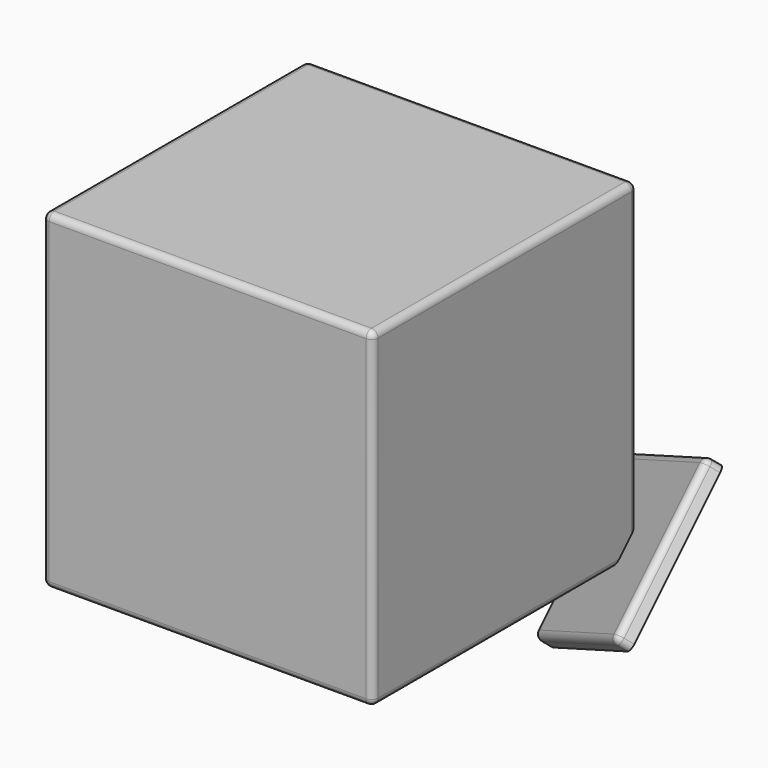
from build123d import *

# Parameters (mm, degrees)
F0_W     = 50
F0_H     = 50
F1_DEPTH = 25
F4_W     = 25
F4_H     = 25
F5_DEPTH = 2.5
F6_R     = 1


with BuildPart() as f1:
    # F0 (on Top) → F1 (new body, symmetric)
    with BuildSketch(Plane.XY):
        Rectangle(F0_W, F0_H)
    extrude(amount=F1_DEPTH, both=True)

    # F4 (on plane+point) → F5 (join)
    with BuildSketch(Plane(origin=(25, 25, -25), x_dir=(-0.8164965809, 0.4082482905, -0.4082482905), z_dir=(0.5773502692, 0.5773502692, -0.5773502692))):
        Rectangle(F4_W, F4_H)
    extrude(amount=-F5_DEPTH)

    # F6
    f6_edges = [f1.edges().sort_by_distance(p)[0] for p in [
        (25, 0, 25),
        (0, 25, 25),
        (-25, 0, 25),
        (0, -25, 25),
        (-25, 25, 0),
        (-25, 0, -25),
        (-25, -25, 0),
        (0, -25, -25),
        (25, -25, 0),
        (-2.165064, 25, -25),
        (25, -2.165064, -25),
        (25, 25, 2.165064),
        (33.762832, 18.453521, -18.453521),
        (23.556624, 14.71779, -32.395459),
        (13.350417, 28.659728, -28.659728),
        (23.556624, 32.395459, -14.71779),
        (34.484519, 28.014043, -10.336374),
        (14.072105, 38.220251, -20.542581),
        (34.484519, 10.336374, -28.014043),
        (14.072105, 20.542581, -38.220251),
    ]]
    fillet(f6_edges, radius=F6_R)


solid = f1.part
